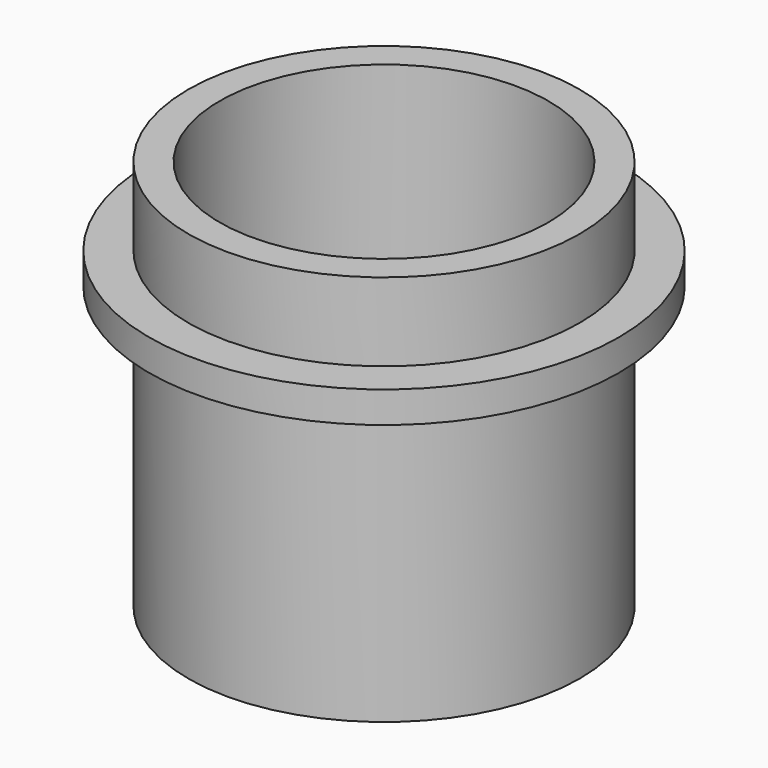
from build123d import *

# Parameters (mm, degrees)
SKETCH_R      = 30
SKETCH_R_2    = 21
PAD_DEPTH     = 4
SKETCH001_R   = 25
SKETCH001_R_2 = 21
PAD001_DEPTH  = 36
SKETCH002_R   = 25
SKETCH002_R_2 = 21
PAD002_DEPTH  = 10


with BuildPart() as part:
    # Sketch → Pad (new body)
    with BuildSketch(Plane.XY):
        Circle(SKETCH_R)
        Circle(SKETCH_R_2, mode=Mode.SUBTRACT)
    extrude(amount=PAD_DEPTH)

    # Sketch001 (on Face3 of Pad) → Pad001 (join)
    with BuildSketch(Plane(origin=(0, 0, 0), x_dir=(1, 0, 0), z_dir=(0, 0, -1))):
        Circle(SKETCH001_R)
        Circle(SKETCH001_R_2, mode=Mode.SUBTRACT)
    extrude(amount=PAD001_DEPTH)

    # Sketch002 (on Face3 of Pad001) → Pad002 (join)
    with BuildSketch(Plane.XY.offset(4)):
        Circle(SKETCH002_R)
        Circle(SKETCH002_R_2, mode=Mode.SUBTRACT)
    extrude(amount=PAD002_DEPTH)


solid = part.part
